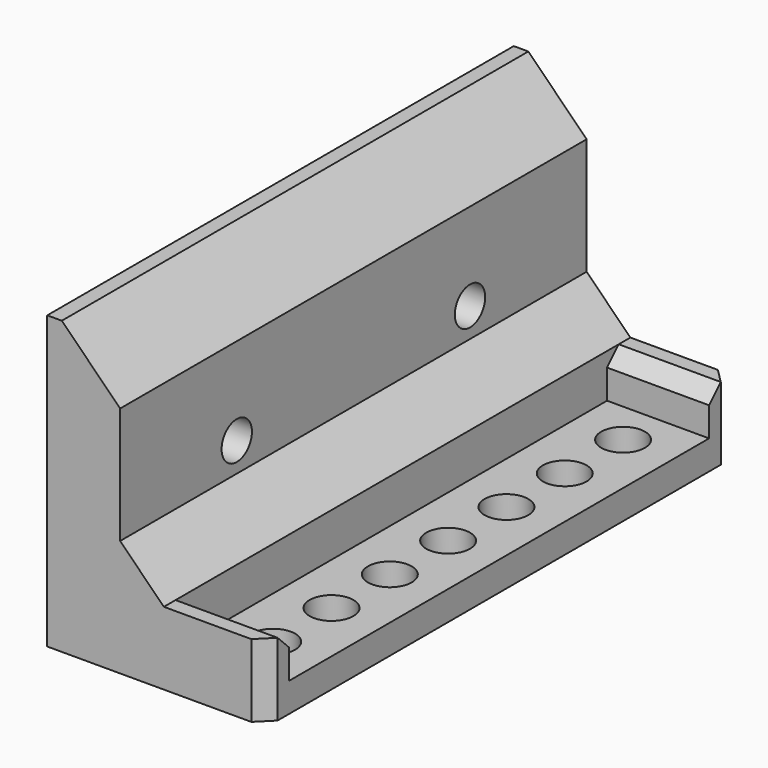
from build123d import *

# Parameters (mm, degrees)
PAD_DEPTH         = 40
SKETCH001_R       = 1.3
POCKET_DEPTH      = 5
CHAMFER_SIZE      = 3
CHAMFER001_SIZE   = 4
SKETCH002_R       = 1.5
POCKET001_DEPTH   = 5.001
POCKET001_FACE6_W = 40
POCKET001_FACE6_H = 7
POCKET001_FACE6_R = 1.5
POCKET008_DEPTH   = 3
SKETCH013_W       = 7
SKETCH013_H       = 2
PAD006_DEPTH      = 3
CHAMFER010_SIZE   = 1
CHAMFER011_SIZE   = 1


with BuildPart() as part:
    # Sketch → Pad (new body)
    with BuildSketch(Plane.XZ):
        Polygon((0, 0), (0, 20), (5, 20), (5, 5), (15, 5), (15, 0), align=None)
    extrude(amount=PAD_DEPTH)

    # Sketch001 (on Face1 of Pad) → Pocket (cut)
    with BuildSketch(Plane(origin=(0, 0, 0), x_dir=(0, 0, -1), z_dir=(-1, 0, 0))):
        with Locations((-10, 30)):
            Circle(SKETCH001_R)
        with Locations((-10, 10)):
            Circle(SKETCH001_R)
    extrude(amount=-POCKET_DEPTH, mode=Mode.SUBTRACT)

    # Chamfer
    chamfer_edges = [part.edges().sort_by_distance(p)[0] for p in [
        (5, -20, 5),
    ]]
    chamfer(chamfer_edges, length=CHAMFER_SIZE)

    # Chamfer001
    chamfer001_edges = [part.edges().sort_by_distance(p)[0] for p in [
        (5, -20, 20),
    ]]
    chamfer(chamfer001_edges, length=CHAMFER001_SIZE)

    # Sketch002 (on Face6 of Chamfer001) → Pocket001 (cut, through all)
    with BuildSketch(Plane(origin=(0, 0, 5), x_dir=(-1, 0, 0), z_dir=(0, 0, 1))):
        with Locations((-11.5, 35)):
            Circle(SKETCH002_R)
        with Locations((-11.5, 30)):
            Circle(SKETCH002_R)
        with Locations((-11.5, 25)):
            Circle(SKETCH002_R)
        with Locations((-11.5, 20)):
            Circle(SKETCH002_R)
        with Locations((-11.5, 15)):
            Circle(SKETCH002_R)
        with Locations((-11.5, 10)):
            Circle(SKETCH002_R)
        with Locations((-11.5, 5)):
            Circle(SKETCH002_R)
    extrude(amount=-POCKET001_DEPTH, mode=Mode.SUBTRACT)

    # Pocket001 Face6 → Pocket008 (cut)
    with BuildSketch(Plane(origin=(11.5, -20, 5), x_dir=(0, 1, 0), z_dir=(0, 0, 1))):
        Rectangle(POCKET001_FACE6_W, POCKET001_FACE6_H)
        with Locations((-15, 0)):
            Circle(POCKET001_FACE6_R, mode=Mode.SUBTRACT)
        with Locations((-10, 0)):
            Circle(POCKET001_FACE6_R, mode=Mode.SUBTRACT)
        with Locations((-5, 0)):
            Circle(POCKET001_FACE6_R, mode=Mode.SUBTRACT)
        Circle(POCKET001_FACE6_R, mode=Mode.SUBTRACT)
        with Locations((5, 0)):
            Circle(POCKET001_FACE6_R, mode=Mode.SUBTRACT)
        with Locations((10, 0)):
            Circle(POCKET001_FACE6_R, mode=Mode.SUBTRACT)
        with Locations((15, 0)):
            Circle(POCKET001_FACE6_R, mode=Mode.SUBTRACT)
    extrude(amount=-POCKET008_DEPTH, mode=Mode.SUBTRACT)

    # Sketch013 (on Face7 of Pocket008) → Pad006 (join)
    with BuildSketch(Plane(origin=(0, 0, 2), x_dir=(-1, 0, 0), z_dir=(0, 0, 1))):
        with Locations((-11.5, 39)):
            Rectangle(SKETCH013_W, SKETCH013_H)
        with Locations((-11.5, 1)):
            Rectangle(SKETCH013_W, SKETCH013_H)
    extrude(amount=PAD006_DEPTH)

    # Chamfer010
    chamfer010_edges = [part.edges().sort_by_distance(p)[0] for p in [
        (15, -40, 2.5),
        (15, 0, 2.5),
    ]]
    chamfer(chamfer010_edges, length=CHAMFER010_SIZE)

    # Chamfer011
    chamfer011_edges = [part.edges().sort_by_distance(p)[0] for p in [
        (11.5, -2, 5),
        (11.5, -38, 5),
    ]]
    chamfer(chamfer011_edges, length=CHAMFER011_SIZE)


solid = part.part
